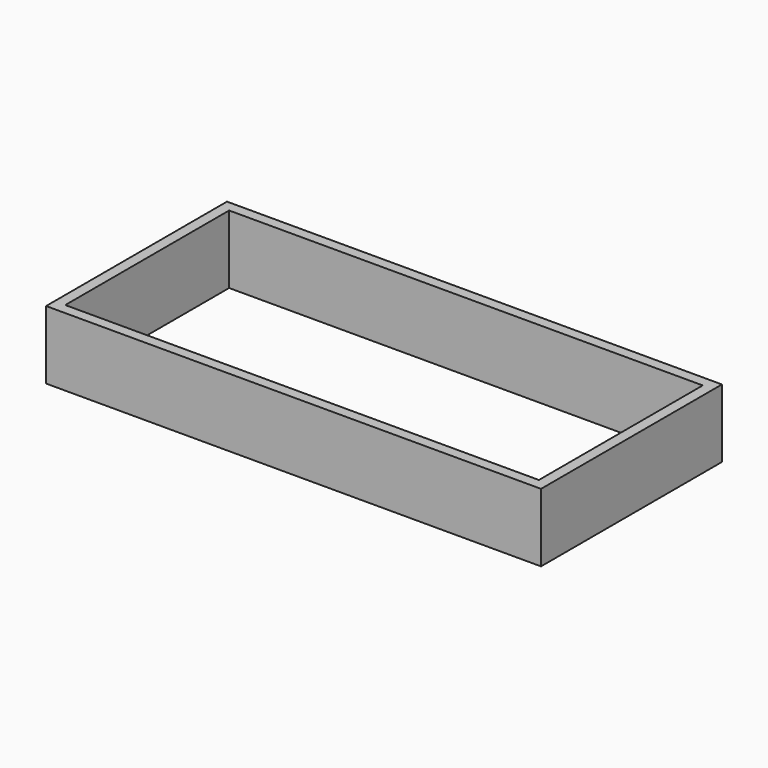
from build123d import *

# Parameters (mm, degrees)
BOX003_W     = 2.5
BOX003_H     = 53
BOX003_DEPTH = 16
BOX004_W     = 116
BOX004_H     = 2.5
BOX004_DEPTH = 16
BOX005_W     = 116
BOX005_H     = 2.5
BOX005_DEPTH = 16
BOX002_W     = 2.5
BOX002_H     = 53
BOX002_DEPTH = 16


with BuildPart() as cube003:
    # Box003 → Box003 (new body)
    with BuildSketch(Plane(origin=(-65, 0, 12), x_dir=(1, 0, 0), z_dir=(0, 0, 1))):
        with Locations((1.25, 26.5)):
            Rectangle(BOX003_W, BOX003_H)
    extrude(amount=BOX003_DEPTH)


with BuildPart() as cube004:
    # Box004 → Box004 (new body)
    with BuildSketch(Plane(origin=(-65, 0, 12), x_dir=(1, 0, 0), z_dir=(0, 0, 1))):
        with Locations((58, 1.25)):
            Rectangle(BOX004_W, BOX004_H)
    extrude(amount=BOX004_DEPTH)


with BuildPart() as cube005:
    # Box005 → Box005 (new body)
    with BuildSketch(Plane(origin=(-65, 50.5, 12), x_dir=(1, 0, 0), z_dir=(0, 0, 1))):
        with Locations((58, 1.25)):
            Rectangle(BOX005_W, BOX005_H)
    extrude(amount=BOX005_DEPTH)


with BuildPart() as fusion003007008004003002005002002:
    # Box002 → Box002 (new body)
    with BuildSketch(Plane(origin=(48.5, 0, 12), x_dir=(1, 0, 0), z_dir=(0, 0, 1))):
        with Locations((1.25, 26.5)):
            Rectangle(BOX002_W, BOX002_H)
    extrude(amount=BOX002_DEPTH)

    # Fusion003007008004003002005002002: union Cube003, Cube004, Cube005
    add(cube003.part)
    add(cube004.part)
    add(cube005.part)


solid = fusion003007008004003002005002002.part
